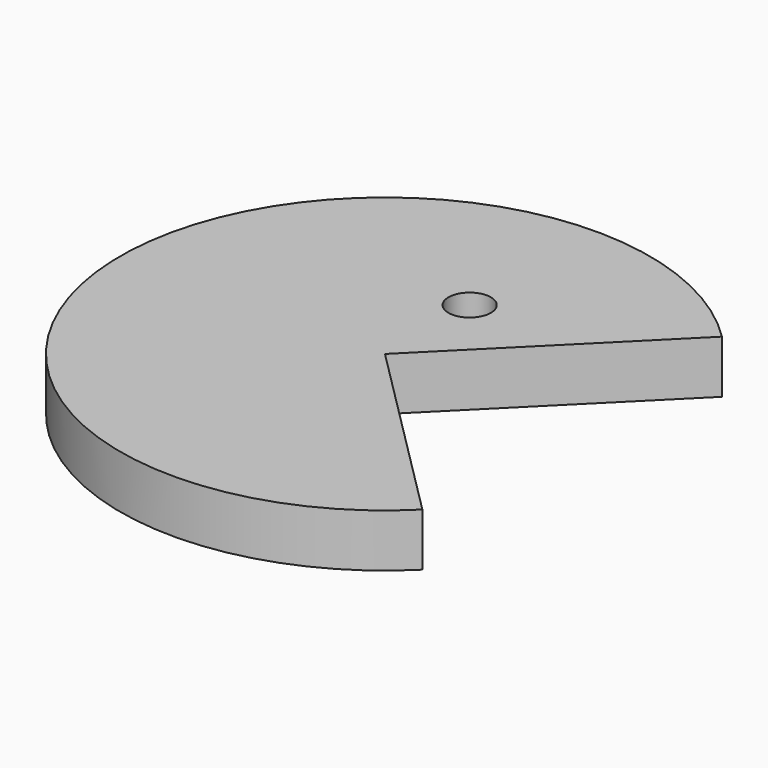
from build123d import *

# Parameters (mm, degrees)
CYLINDER001_R            = 2
CYLINDER001_DEPTH        = 10
CYLINDER_W               = 25
CYLINDER_H               = 5
CYLINDER_ANGLE           = 270
CYLINDER_PLACEMENT_ANGLE = 45


with BuildPart() as cilindre:
    # Cylinder001 → Cylinder001 (new body)
    with BuildSketch(Plane(origin=(0, 10, -2), x_dir=(1, 0, 0), z_dir=(0, 0, 1))):
        Circle(CYLINDER001_R)
    extrude(amount=CYLINDER001_DEPTH)


with BuildPart() as obj1:
    # Cylinder → Cylinder (revolve)
    with BuildSketch(Plane.XZ):
        with Locations((12.5, 2.5)):
            Rectangle(CYLINDER_W, CYLINDER_H)
    revolve(axis=Axis((0, 0, 0), (0, 0, 1)), revolution_arc=CYLINDER_ANGLE)


with BuildPart() as obj1_1:
    # Cylinder placement: moved
    add(obj1.part.rotate(Axis((0, 0, 0), (0, 0, 1)), CYLINDER_PLACEMENT_ANGLE))

    # Cut: cut Cilindre
    add(cilindre.part, mode=Mode.SUBTRACT)


solid = obj1_1.part
